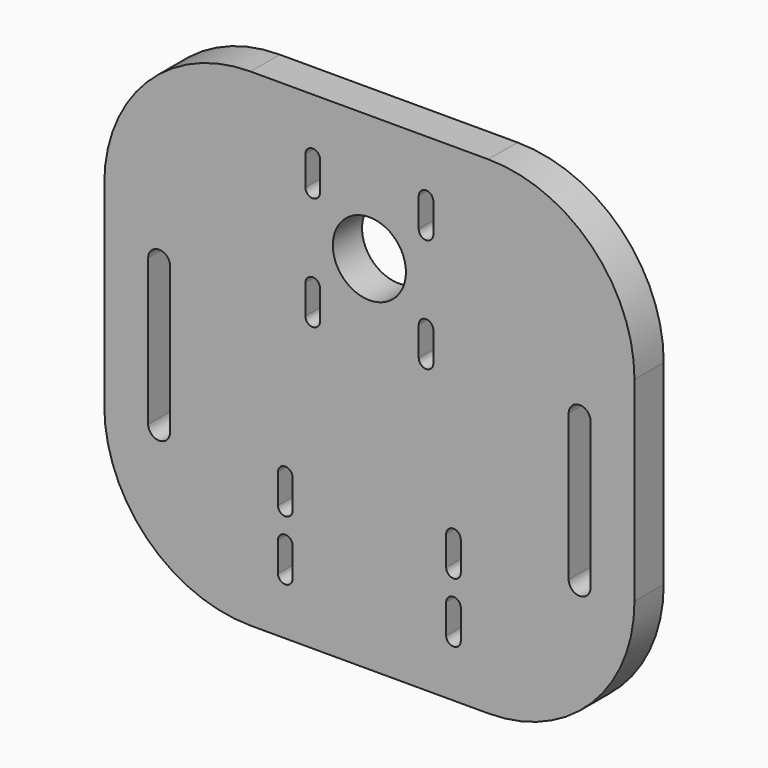
from build123d import *

# Parameters (mm, degrees)
SKETCH_W  = 145
SKETCH_H  = 133.4
SKETCH_R  = 10
PAD_DEPTH = 10
FILLET_R  = 40


with BuildPart() as part:
    # Sketch → Pad (new body)
    with BuildSketch(Plane.XZ):
        with Locations((0, 7.3)):
            Rectangle(SKETCH_W, SKETCH_H)
        with Locations((0, 39.5)):
            Circle(SKETCH_R, mode=Mode.SUBTRACT)
        with BuildLine():
            ThreePointArc((-13.5, 59), (-15.5, 61), (-17.5, 59))
            Line((-17.5, 59), (-17.5, 51))
            ThreePointArc((-17.5, 51), (-15.5, 49), (-13.5, 51))
            Line((-13.5, 59), (-13.5, 51))
        make_face(mode=Mode.SUBTRACT)
        with BuildLine():
            ThreePointArc((17.5, 59), (15.5, 61), (13.5, 59))
            Line((13.5, 59), (13.5, 51))
            ThreePointArc((13.5, 51), (15.5, 49), (17.5, 51))
            Line((17.5, 59), (17.5, 51))
        make_face(mode=Mode.SUBTRACT)
        with BuildLine():
            ThreePointArc((-13.5, 28), (-15.5, 30), (-17.5, 28))
            Line((-17.5, 28), (-17.5, 20))
            ThreePointArc((-17.5, 20), (-15.5, 18), (-13.5, 20))
            Line((-13.5, 28), (-13.5, 20))
        make_face(mode=Mode.SUBTRACT)
        with BuildLine():
            ThreePointArc((17.5, 28), (15.5, 30), (13.5, 28))
            Line((13.5, 28), (13.5, 20))
            ThreePointArc((13.5, 20), (15.5, 18), (17.5, 20))
            Line((17.5, 28), (17.5, 20))
        make_face(mode=Mode.SUBTRACT)
        with BuildLine():
            ThreePointArc((-21, -20), (-23, -18), (-25, -20))
            Line((-25, -20), (-25, -28))
            ThreePointArc((-25, -28), (-23, -30), (-21, -28))
            Line((-21, -20), (-21, -28))
        make_face(mode=Mode.SUBTRACT)
        with BuildLine():
            ThreePointArc((25, -20), (23, -18), (21, -20))
            Line((21, -20), (21, -28))
            ThreePointArc((21, -28), (23, -30), (25, -28))
            Line((25, -20), (25, -28))
        make_face(mode=Mode.SUBTRACT)
        with BuildLine():
            ThreePointArc((-21, -36.4), (-23, -34.4), (-25, -36.4))
            Line((-25, -36.4), (-25, -44.4))
            ThreePointArc((-25, -44.4), (-23, -46.4), (-21, -44.4))
            Line((-21, -36.4), (-21, -44.4))
        make_face(mode=Mode.SUBTRACT)
        with BuildLine():
            ThreePointArc((25, -36.4), (23, -34.4), (21, -36.4))
            Line((21, -36.4), (21, -44.4))
            ThreePointArc((21, -44.4), (23, -46.4), (25, -44.4))
            Line((25, -36.4), (25, -44.4))
        make_face(mode=Mode.SUBTRACT)
        with BuildLine():
            ThreePointArc((-54.5, 20), (-57.5, 23), (-60.5, 20))
            Line((-60.5, 20), (-60.5, -20))
            ThreePointArc((-60.5, -20), (-57.5, -23), (-54.5, -20))
            Line((-54.5, 20), (-54.5, -20))
        make_face(mode=Mode.SUBTRACT)
        with BuildLine():
            ThreePointArc((60.5, 20), (57.5, 23), (54.5, 20))
            Line((54.5, 20), (54.5, -20))
            ThreePointArc((54.5, -20), (57.5, -23), (60.5, -20))
            Line((60.5, 20), (60.5, -20))
        make_face(mode=Mode.SUBTRACT)
    extrude(amount=PAD_DEPTH)

    # Fillet
    fillet_edges = [part.edges().sort_by_distance(p)[0] for p in [
        (-72.5, -5, 74),
        (72.5, -5, 74),
        (72.5, -5, -59.4),
        (-72.5, -5, -59.4),
    ]]
    fillet(fillet_edges, radius=FILLET_R)


solid = part.part
